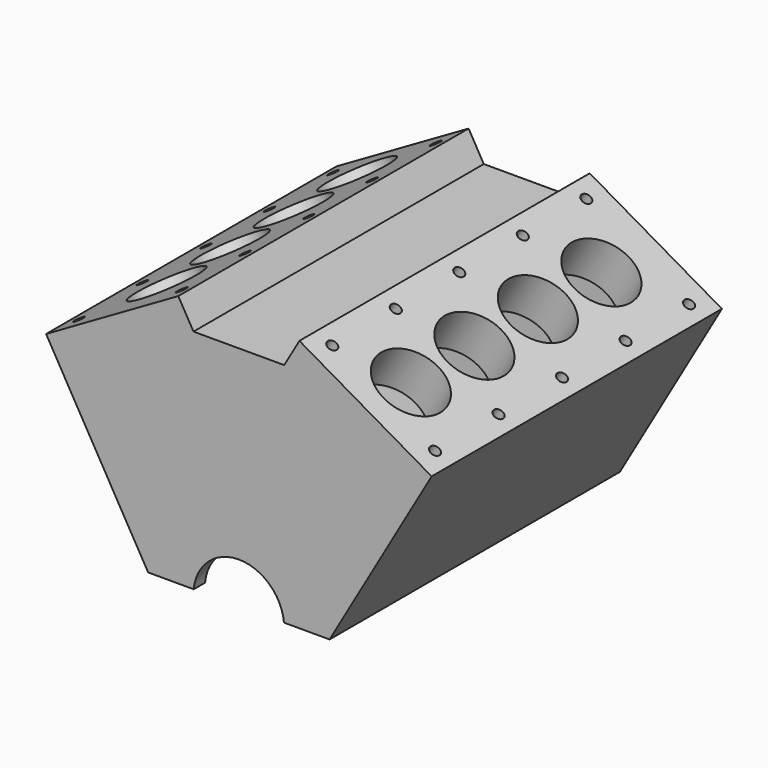
from build123d import *

# Parameters (mm, degrees)
F1_DEPTH         = 406.4
F2_R             = 38.1
F3_DEPTH         = 387.351
F4_R             = 38.1
F5_DEPTH         = 387.351
F8_W             = 139.2440905122
F8_H             = 374.65
F9_DEPTH         = 336.5510000866
F10_W            = 139.2440905122
F10_H            = 374.65
F11_DEPTH        = 336.551
F12_R            = 50.8
F13_DEPTH        = 406.401
F15_W            = 112.3258540089
F15_H            = 374.65
F16_DEPTH        = 215.901
F19_D            = 11.50874
F19_DEPTH        = 54.61
F19_TIP          = 3.4575743203
F19_ON_F17_D     = 11.50874
F19_ON_F17_DEPTH = 54.61
F19_ON_F17_TIP   = 3.4575743203


with BuildPart() as f1:
    # F0 (on Front) → F1 (new body)
    with BuildSketch(Plane.XZ):
        Polygon((-67.8147737194, 29.4704525612), (-215.9, -56.0265926949), (-101.6, -254), (101.6, -254), (215.9, -56.0265926949), (67.8147737194, 29.4704525612), (50.8, 0), (-50.8, 0), align=None)
    extrude(amount=F1_DEPTH)

    # F2 (on face) → F3 (cut, through all)
    with BuildSketch(Plane(origin=(29.7147737194, 0, 51.4674978174), x_dir=(0.8660254038, 0, -0.5), z_dir=(0.5, 0, 0.8660254038))):
        with Locations((129.4911357684, -76.2)):
            Circle(F2_R)
        with Locations((129.4911357684, -165.1)):
            Circle(F2_R)
        with Locations((129.4911357684, -254)):
            Circle(F2_R)
        with Locations((129.4911357684, -342.9)):
            Circle(F2_R)
    extrude(amount=-F3_DEPTH, mode=Mode.SUBTRACT)

    # F4 (on face) → F5 (cut, through all)
    with BuildSketch(Plane(origin=(-29.7147737194, 0, 51.4674978174), x_dir=(0.8660254038, 0, 0.5), z_dir=(-0.5, 0, 0.8660254038))):
        with Locations((-129.4911357684, -63.5)):
            Circle(F4_R)
        with Locations((-129.4911357684, -152.4)):
            Circle(F4_R)
        with Locations((-129.4911357684, -241.3)):
            Circle(F4_R)
        with Locations((-129.4911357684, -330.2)):
            Circle(F4_R)
    extrude(amount=-F5_DEPTH, mode=Mode.SUBTRACT)

    # F8 (on offset) → F9 (cut, through all)
    with BuildSketch(Plane(origin=(4.3147737194, 0, 7.4734073051), x_dir=(0.8660254038, 0, -0.5), z_dir=(0.5, 0, 0.8660254038))):
        with Locations((129.4911357684, -203.2)):
            Rectangle(F8_W, F8_H)
    extrude(amount=-F9_DEPTH, mode=Mode.SUBTRACT)

    # F10 (on offset) → F11 (cut, through all)
    with BuildSketch(Plane(origin=(-4.3147737194, 0, 7.4734073051), x_dir=(0.8660254038, 0, 0.5), z_dir=(-0.5, 0, 0.8660254038))):
        with Locations((-129.4911357684, -203.2)):
            Rectangle(F10_W, F10_H)
    extrude(amount=-F11_DEPTH, mode=Mode.SUBTRACT)

    # F12 (on face) → F13 (cut, through all)
    with BuildSketch(Plane.XZ.offset(406.4)):
        with Locations((0, -258.9822715367)):
            Circle(F12_R)
    extrude(amount=-F13_DEPTH, mode=Mode.SUBTRACT)

    # F15 (on offset) → F16 (cut, through all)
    with BuildSketch(Plane.XY.offset(-38.1)):
        with Locations((0, -203.2)):
            Rectangle(F15_W, F15_H)
    extrude(amount=-F16_DEPTH, mode=Mode.SUBTRACT)

    # F19
    with Locations(Plane(origin=(-29.7147737194, 0, 51.4674978174), x_dir=(0.8660254038, 0, 0.5), z_dir=(-0.5, 0, 0.8660254038))):
        with Locations((-195.9381810245, -381), (-63.0440905122, -381), (-63.0440905122, -292.1), (-195.9381810245, -292.1), (-195.9381810245, -203.2), (-63.0440905122, -203.2), (-63.0440905122, -114.3), (-195.9381810245, -114.3), (-195.9381810245, -25.4), (-63.0440905122, -25.4)):
            Hole(F19_D / 2, depth=F19_DEPTH)
            with Locations((0, 0, -(F19_DEPTH + F19_TIP / 2))):  # 118° drill point
                Cone(0, F19_D / 2, F19_TIP, mode=Mode.SUBTRACT)

    # F19 on F17
    with Locations(Plane(origin=(29.7147737194, 0, 51.4674978174), x_dir=(0.8660254038, 0, -0.5), z_dir=(0.5, 0, 0.8660254038))):
        with Locations((63.0440905122, -25.4), (63.0440905122, -114.3), (63.0440905122, -203.2), (63.0440905122, -292.1), (63.0440905122, -381), (195.9381810245, -381), (195.9381810245, -292.1), (195.9381810245, -203.2), (195.9381810245, -114.3), (195.9381810245, -25.4)):
            Hole(F19_ON_F17_D / 2, depth=F19_ON_F17_DEPTH)
            with Locations((0, 0, -(F19_ON_F17_DEPTH + F19_ON_F17_TIP / 2))):  # 118° drill point
                Cone(0, F19_ON_F17_D / 2, F19_ON_F17_TIP, mode=Mode.SUBTRACT)


solid = f1.part
